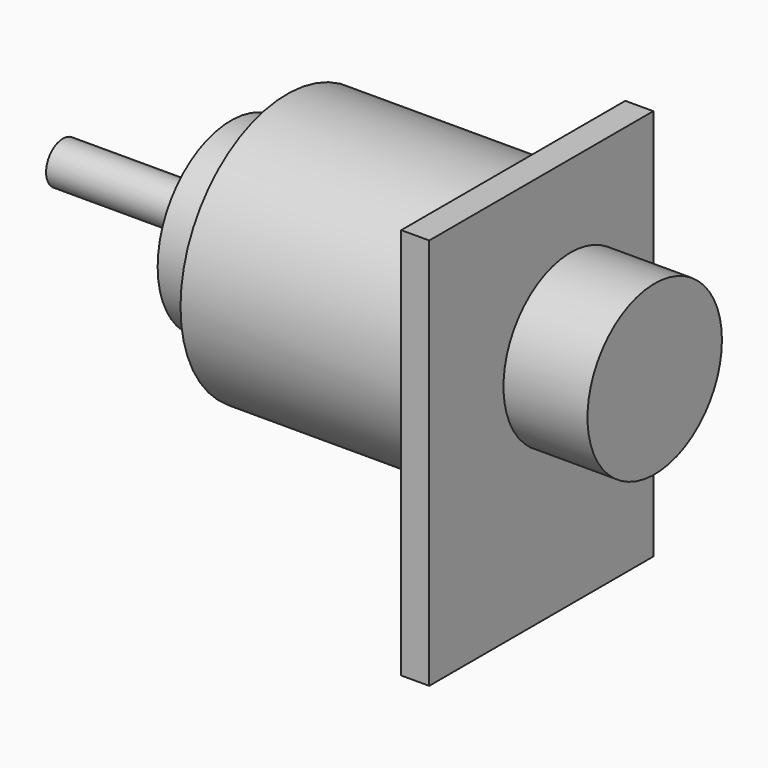
from build123d import *

# Parameters (mm, degrees)
F0_W      = 5
F0_H      = 70
F1_DEPTH  = 50
F2_R      = 23.75
F3_DEPTH  = 40
F4_R      = 16.352072
F5_DEPTH  = 10
F6_R      = 3.75
F7_DEPTH  = 30
F8_R      = 3.75
F9_DEPTH  = 5
F10_R     = 15
F11_DEPTH = 15


with BuildPart() as f1:
    # F0 (on Front) → F1 (new body)
    with BuildSketch(Plane.XZ):
        with Locations((0, 35.574075)):
            Rectangle(F0_W, F0_H)
    extrude(amount=-F1_DEPTH)

    # F2 (on face) → F3 (join)
    with BuildSketch(Plane(origin=(-2.5, 0, 0), x_dir=(0, -1, 0), z_dir=(-1, 0, 0))):
        with Locations((-24.496011, 45.235008)):
            Circle(F2_R)
    extrude(amount=F3_DEPTH)

    # F4 (on face) → F5 (join)
    with BuildSketch(Plane(origin=(-42.5, 0, 0), x_dir=(0, -1, 0), z_dir=(-1, 0, 0))):
        with Locations((-24.496011, 45.235008)):
            Circle(F4_R)
    extrude(amount=F5_DEPTH)

    # F6 (on face) → F7 (join)
    with BuildSketch(Plane(origin=(-52.5, 0, 0), x_dir=(0, -1, 0), z_dir=(-1, 0, 0))):
        with Locations((-24.496011, 45.235008)):
            Circle(F6_R)
    extrude(amount=F7_DEPTH)

    # F8 (on face) → F9 (join)
    with BuildSketch(Plane.YZ.offset(2.5)):
        with Locations((25.3156, 45.039263)):
            Circle(F8_R)
    extrude(amount=F9_DEPTH)

    # F10 (on face) → F11 (join)
    with BuildSketch(Plane.YZ.offset(7.5)):
        with Locations((25.3156, 45.039263)):
            Circle(F10_R)
    extrude(amount=F11_DEPTH)


solid = f1.part
